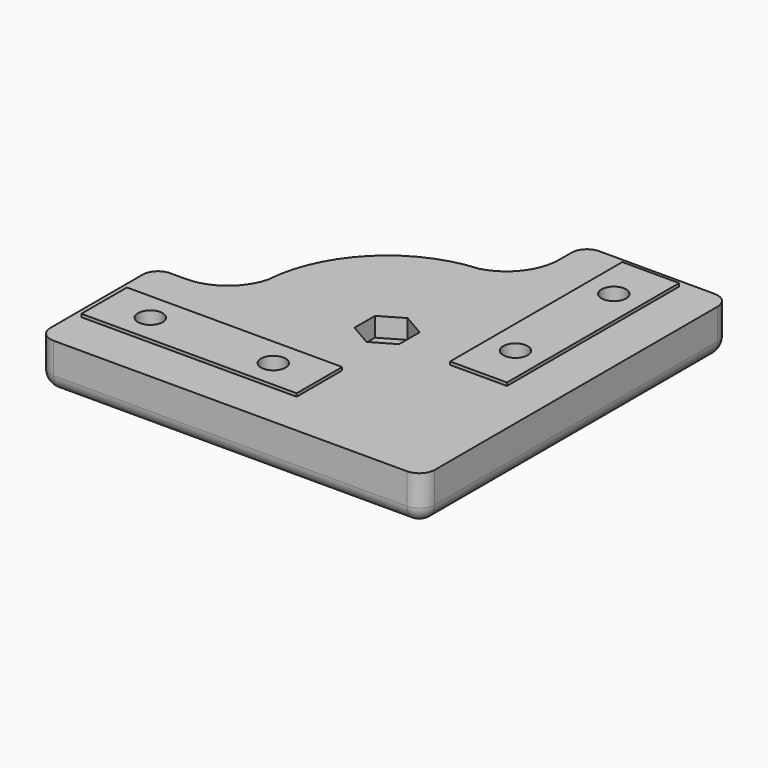
from build123d import *

# Parameters (mm, degrees)
PAD_DEPTH       = 6
SKETCH_W        = 28
SKETCH_H        = 7.4
SKETCH_W_2      = 7.4
SKETCH_H_2      = 28
PAD001_DEPTH    = 0.4
SKETCH002_R     = 1.6
POCKET_DEPTH    = 6.401
POCKET001_DEPTH = 2.5
SKETCH004_R     = 3
POCKET002_DEPTH = 1
SKETCH005_R     = 3
PAD002_DEPTH    = 0.2
CHAMFER_SIZE    = 0.4
FILLET_R        = 2


with BuildPart() as part:
    # Sketch001 → Pad (new body)
    with BuildSketch(Plane(origin=(0, -20, 0), x_dir=(1, 0, 0), z_dir=(0, 0, 1))):
        with BuildLine():
            Line((-9.5, 40.5), (9.5, 40.5))
            Line((9.5, 40.5), (9.5, -9.5))
            Line((9.5, -9.5), (-40.5, -9.5))
            Line((-40.5, -9.5), (-40.5, 9.5))
            Line((-40.5, 9.5), (-36.5, 9.5))
            ThreePointArc((-36.5, 9.5), (-32.317125, 10.922441), (-29.868569, 14.599988))
            ThreePointArc((-14.599988, 29.868569), (-25.100431, 25.100431), (-29.868569, 14.599988))
            ThreePointArc((-14.599988, 29.868569), (-10.922441, 32.317125), (-9.5, 36.5))
            Line((-9.5, 36.5), (-9.5, 40.5))
        make_face()
    extrude(amount=PAD_DEPTH)

    # Sketch → Pad001 (new body)
    with BuildSketch(Plane(origin=(0, -20, 6), x_dir=(1, 0, 0), z_dir=(0, 0, 1))):
        with Locations((-25.5, 0)):
            Rectangle(SKETCH_W, SKETCH_H)
        with Locations((0, 25.5)):
            Rectangle(SKETCH_W_2, SKETCH_H_2)
    extrude(amount=PAD001_DEPTH)

    # Sketch002 → Pocket (cut, through all)
    with BuildSketch(Plane(origin=(0, -20, 0), x_dir=(1, 0, 0), z_dir=(0, 0, -1))):
        with Locations((-33.5, 0)):
            Circle(SKETCH002_R)
        with Locations((-17.5, 0)):
            Circle(SKETCH002_R)
        with Locations((0, -17.5)):
            Circle(SKETCH002_R)
        with Locations((0, -33.5)):
            Circle(SKETCH002_R)
        with Locations((-13.5, -13.5)):
            Circle(SKETCH002_R)
    extrude(amount=-POCKET_DEPTH, mode=Mode.SUBTRACT)

    # Sketch003 → Pocket001 (cut)
    with BuildSketch(Plane(origin=(0, -20, 6), x_dir=(1, 0, 0), z_dir=(0, 0, 1))):
        Polygon((-10.598815, 11.825), (-10.598815, 15.175), (-13.5, 16.85), (-16.401185, 15.175), (-16.401185, 11.825), (-13.5, 10.15), align=None)
    extrude(amount=-POCKET001_DEPTH, mode=Mode.SUBTRACT)

    # Sketch004 → Pocket002 (cut)
    with BuildSketch(Plane(origin=(0, -20, 0), x_dir=(1, 0, 0), z_dir=(0, 0, -1))):
        with Locations((-33.5, 0)):
            Circle(SKETCH004_R)
        with Locations((-17.5, 0)):
            Circle(SKETCH004_R)
        with Locations((0, -17.5)):
            Circle(SKETCH004_R)
        with Locations((0, -33.5)):
            Circle(SKETCH004_R)
    extrude(amount=-POCKET002_DEPTH, mode=Mode.SUBTRACT)

    # Sketch005 → Pad002 (new body)
    with BuildSketch(Plane(origin=(0, -20, 1), x_dir=(1, 0, 0), z_dir=(0, 0, -1))):
        with Locations((-33.5, 0)):
            Circle(SKETCH005_R)
        with Locations((-17.5, 0)):
            Circle(SKETCH005_R)
        with Locations((0, -17.5)):
            Circle(SKETCH005_R)
        with Locations((0, -33.5)):
            Circle(SKETCH005_R)
    extrude(amount=-PAD002_DEPTH)

    # Chamfer
    chamfer_edges = [part.edges().sort_by_distance(p)[0] for p in [
        (-20.5, -20, 0),
        (-36.5, -20, 0),
        (-3, -2.5, 0),
        (-3, 13.5, 0),
    ]]
    chamfer(chamfer_edges, length=CHAMFER_SIZE)

    # Fillet
    fillet_edges = [part.edges().sort_by_distance(p)[0] for p in [
        (-32.317125, -9.077559, 0),
        (-38.5, -10.5, 0),
        (-40.5, -20, 0),
        (-40.5, -10.5, 3),
        (-25.100431, 5.100431, 0),
        (-10.922441, 12.317125, 0),
        (-9.5, 18.5, 0),
        (-9.5, 20.5, 3),
        (0, 20.5, 0),
        (9.5, 20.5, 3),
        (9.5, -4.5, 0),
        (-15.5, -29.5, 0),
        (-40.5, -29.5, 3),
        (9.5, -29.5, 3),
    ]]
    fillet(fillet_edges, radius=FILLET_R)


solid = part.part
